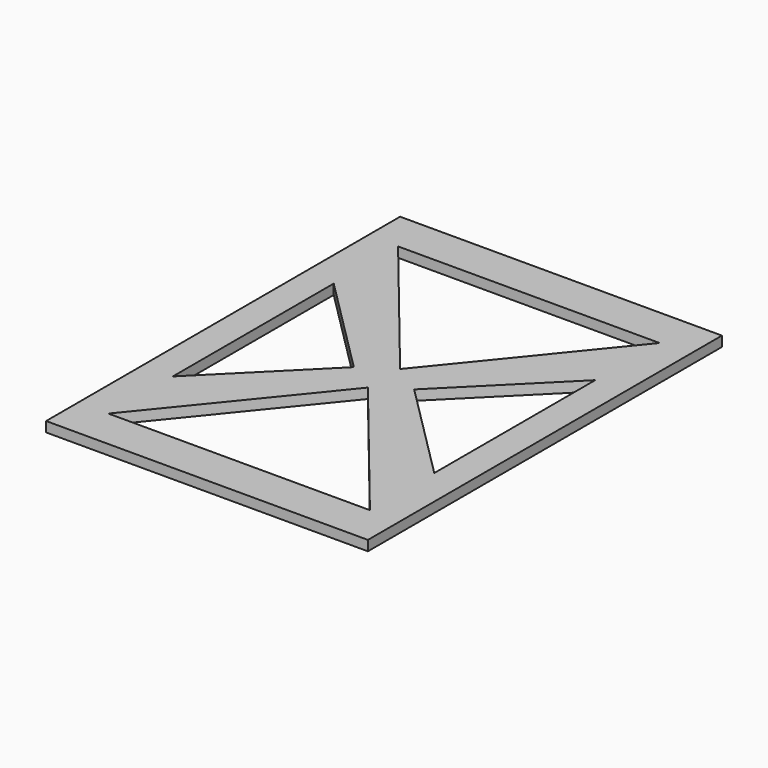
from build123d import *

# Parameters (mm, degrees)
F0_W     = 203.2
F0_H     = 279.4
F1_DEPTH = 6.35


with BuildPart() as f1:
    # F0 (on Top) → F1 (new body)
    with BuildSketch(Plane.XY):
        with Locations((38.833316, 41.832641)):
            Rectangle(F0_W, F0_H)
        Polygon((-43.716684, -72.467359), (38.833316, 29.132641), (121.383316, -72.467359), align=None, mode=Mode.SUBTRACT)
        Polygon((-43.716684, -21.667359), (-43.716684, 105.332641), (19.783316, 41.832641), align=None, mode=Mode.SUBTRACT)
        Polygon((38.833316, 54.532641), (-43.716684, 156.132641), (121.383316, 156.132641), align=None, mode=Mode.SUBTRACT)
        Polygon((121.383316, -21.667359), (57.883316, 41.832641), (121.383316, 105.332641), align=None, mode=Mode.SUBTRACT)
    extrude(amount=F1_DEPTH)


solid = f1.part
